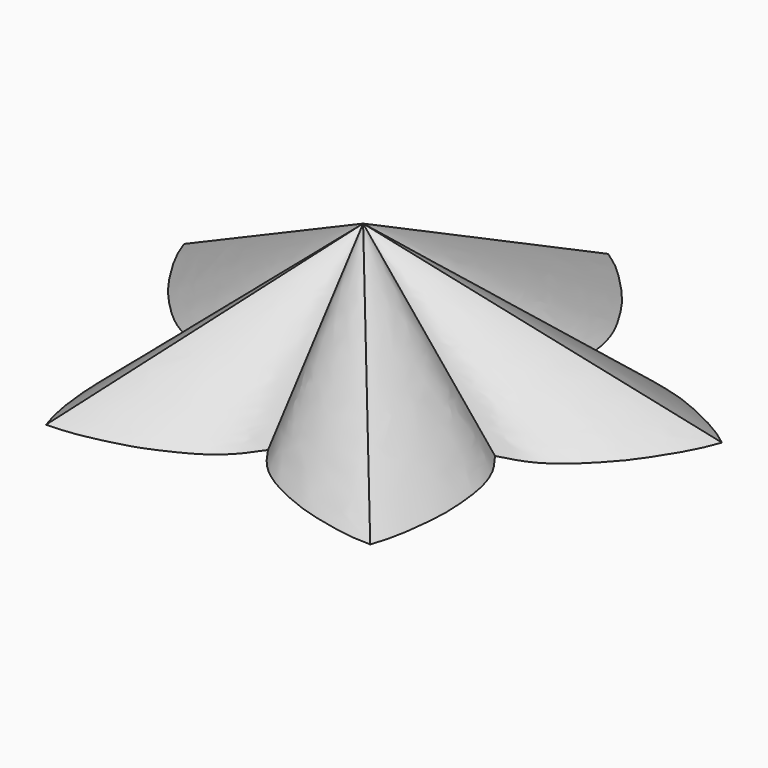
from build123d import *


with BuildPart() as f3:
    # F0 (on Top) → F3 section 0
    with BuildSketch(Plane.XY, mode=Mode.PRIVATE) as f3_s0:
        with BuildLine():
            add(Edge.make_bspline(
                [(-0.0046782463, -3.3779127154), (-0.2886714116, -3.8029014086), (-0.8501646318, -4.6414908394), (-2.0614273809, -5.5342942003), (-3.191174351, -6.0830354403), (-4.4279454803, -6.6365184373), (-6.0382217073, -7.0393362104), (-7.4663821983, -7.3239460026), (-8.2320357436, -7.3357281281), (-8.5845080582, -7.3449459069)],
                knots=[0.0008153077, 0.0008153077, 0.0008153077, 0.0008153077, 0.1493003301, 0.2961209658, 0.430920111, 0.5710544916, 0.7274599749, 0.8736269908, 1, 1, 1, 1], degree=3))
            add(Edge.make_bspline(
                [(-0.0046782463, -3.3779127154), (0.2798235099, -3.8035541954), (0.8529745003, -4.6399037672), (2.0605602851, -5.5345401007), (3.1914082814, -6.0829693758), (4.427869641, -6.6365387242), (6.0382568128, -7.0393312795), (7.4663249343, -7.3239458928), (8.232133697, -7.3357306898), (8.5845080582, -7.3449459069)],
                knots=[0.0008182641, 0.0008182641, 0.0008182641, 0.0008182641, 0.1495367427, 0.2963165764, 0.4310782604, 0.5711736972, 0.7275357148, 0.8736621104, 1, 1, 1, 1], degree=3))
            add(Edge.make_bspline(
                [(7.6630854562, 2.0698141102), (7.9723899503, 1.6593058644), (8.5814688233, 0.8509923751), (9.0258247873, -0.5896309127), (9.1713935312, -1.8371303739), (9.2861520096, -3.1872328685), (9.1355219384, -4.8402792282), (8.9333390624, -6.2824190295), (8.6920191627, -7.0091437889), (8.5845080582, -7.3449459069)],
                knots=[0, 0, 0, 0, 0.1493003301, 0.2961209658, 0.430920111, 0.5710544916, 0.7274599749, 0.8736269908, 1, 1, 1, 1], degree=3))
            add(Edge.make_bspline(
                [(7.6630854562, 2.0698141102), (8.160702191, 2.1985148296), (9.1405693504, 2.4519080431), (10.3851689009, 3.3026839471), (11.2757141149, 4.18833308), (12.2060228136, 5.1734584423), (13.117239272, 6.5608791613), (13.8568123727, 7.8153418951), (14.1203788685, 8.5342972986), (14.2452946594, 8.8640210393)],
                knots=[0, 0, 0, 0, 0.1493003301, 0.2961209658, 0.430920111, 0.5710544916, 0.7274599749, 0.8736269908, 1, 1, 1, 1], degree=3))
            add(Edge.make_bspline(
                [(5.0531831504, 11.0982573286), (5.5427173943, 11.2549178341), (6.5066510316, 11.5634299302), (8.0132265607, 11.5079515111), (9.2389643074, 11.2340680663), (10.5514093429, 10.8972680023), (12.0623572586, 10.2100358132), (13.357194546, 9.5436714076), (13.9637171958, 9.0762375137), (14.2452946594, 8.8640210393)],
                knots=[0, 0, 0, 0, 0.1493003301, 0.2961209658, 0.430920111, 0.5710544916, 0.7274599749, 0.8736269908, 1, 1, 1, 1], degree=3))
            add(Edge.make_bspline(
                [(5.0531831504, 11.0982573286), (5.0476928659, 11.6139287191), (4.9874958494, 12.6338813862), (4.479140637, 14.0461168333), (3.828355926, 15.123781678), (3.0968383304, 16.263256138), (1.9678497609, 17.4808614684), (0.9314693675, 18.4982947676), (0.2948958331, 18.9254438253), (0.006837445, 19.1243654424)],
                knots=[0, 0, 0, 0, 0.1497970569, 0.2965038342, 0.4311984436, 0.571224151, 0.7275083428, 0.8735620072, 0.999007298, 0.999007298, 0.999007298, 0.999007298], degree=3))
            add(Edge.make_bspline(
                [(-5.0531831504, 11.0982573286), (-5.0476963712, 11.6135994796), (-4.9874861349, 12.6340289048), (-4.4791678329, 14.0460888589), (-3.8282636822, 15.1237632625), (-3.0972160894, 16.2633684742), (-1.9663030656, 17.4803899928), (-0.9349579983, 18.5013408383), (-0.2826014748, 18.924597477), (0.006837445, 19.1243654424)],
                knots=[0, 0, 0, 0, 0.1497014163, 0.2963145262, 0.4309231374, 0.5708594429, 0.7270438524, 0.8730042663, 0.9990043912, 0.9990043912, 0.9990043912, 0.9990043912], degree=3))
            add(Edge.make_bspline(
                [(-5.0531831504, 11.0982573286), (-5.5427173943, 11.2549178341), (-6.5066510316, 11.5634299302), (-8.0132265607, 11.5079515111), (-9.2389643074, 11.2340680663), (-10.5514093429, 10.8972680023), (-12.0623572586, 10.2100358132), (-13.357194546, 9.5436714076), (-13.9637171958, 9.0762375137), (-14.2452946594, 8.8640210393)],
                knots=[0, 0, 0, 0, 0.1493003301, 0.2961209658, 0.430920111, 0.5710544916, 0.7274599749, 0.8736269908, 1, 1, 1, 1], degree=3))
            add(Edge.make_bspline(
                [(-7.6630854562, 2.0698141102), (-8.160702191, 2.1985148296), (-9.1405693504, 2.4519080431), (-10.3851689009, 3.3026839471), (-11.2757141149, 4.18833308), (-12.2060228136, 5.1734584423), (-13.117239272, 6.5608791613), (-13.8568123727, 7.8153418951), (-14.1203788685, 8.5342972986), (-14.2452946594, 8.8640210393)],
                knots=[0, 0, 0, 0, 0.1493003301, 0.2961209658, 0.430920111, 0.5710544916, 0.7274599749, 0.8736269908, 1, 1, 1, 1], degree=3))
            add(Edge.make_bspline(
                [(-7.6630854562, 2.0698141102), (-7.9723899503, 1.6593058644), (-8.5814688233, 0.8509923751), (-9.0258247873, -0.5896309127), (-9.1713935312, -1.8371303739), (-9.2861520096, -3.1872328685), (-9.1355219384, -4.8402792282), (-8.9333390624, -6.2824190295), (-8.6920191627, -7.0091437889), (-8.5845080582, -7.3449459069)],
                knots=[0, 0, 0, 0, 0.1493003301, 0.2961209658, 0.430920111, 0.5710544916, 0.7274599749, 0.8736269908, 1, 1, 1, 1], degree=3))
        make_face()
    loft([f3_s0.sketch, Vertex(0, 2.9152445495, 8)])


solid = f3.part
